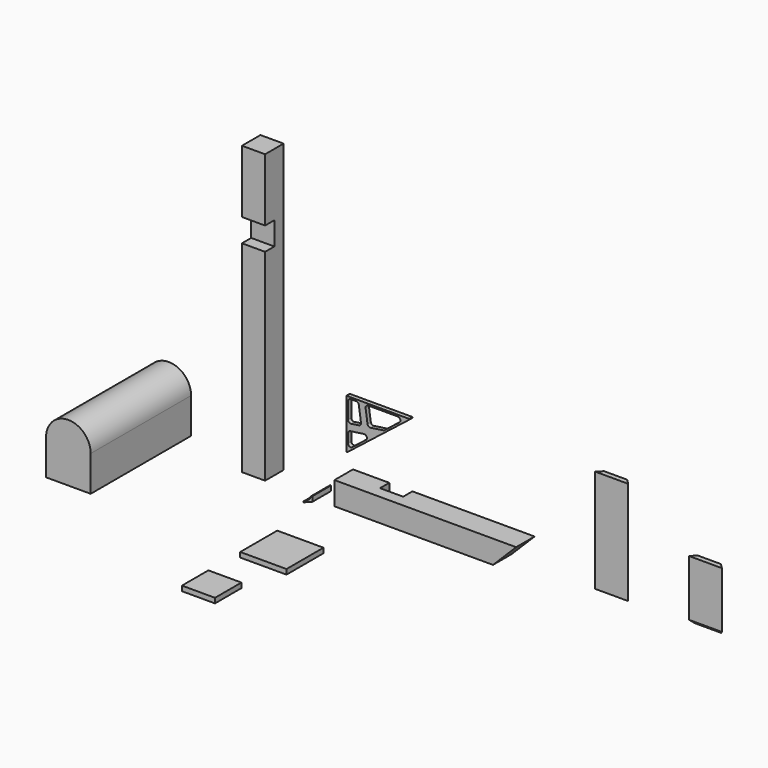
from build123d import *

# Parameters (mm, degrees)
F1_DEPTH  = 482.6
F3_DEPTH  = 88.9
F4_W      = 88.9
F4_H      = 88.9
F5_DEPTH  = 44.45
F7_DEPTH  = 88.9
F8_W      = 88.9
F8_H      = 88.9
F9_DEPTH  = 44.45
F11_DEPTH = 88.9
F12_W     = 88.9
F12_H     = 95.25
F13_DEPTH = 88.9
F15_DEPTH = 88.9
F17_W     = 127
F17_H     = 396.875
F18_DEPTH = 19.05
F20_DEPTH = 396.876
F21_W     = 127
F21_H     = 228.6
F22_DEPTH = 19.05
F24_DEPTH = 228.601
F26_DEPTH = 127
F28_DEPTH = 1104.901
F29_W     = 177.8
F29_H     = 177.8
F30_DEPTH = 19.05
F31_W     = 127
F31_H     = 127
F32_DEPTH = 19.05
F33_W     = 241.3
F33_H     = 190.5
F34_DEPTH = 15.875
F36_DEPTH = 15.876
F38_DEPTH = 15.876
F39_R     = 10.16
F40_SIZE  = 12.7


with BuildPart() as f1:
    # F0 (on Front) → F1 (new body)
    with BuildSketch(Plane.XZ):
        with BuildLine():
            Line((-781.05, 136.525), (-781.05, 0))
            Line((-781.05, 0), (-609.6, 0))
            Line((-609.6, 0), (-609.6, 136.525))
            ThreePointArc((-609.6, 136.525), (-695.325, 222.25), (-781.05, 136.525))
        make_face()
    extrude(amount=F1_DEPTH)


with BuildPart() as f3:
    # F2 (on Front) → F3 (new body)
    with BuildSketch(Plane.XZ):
        Polygon((-342.9, 1104.9), (-342.9, 0), (-254, 0), (-254, 1193.8), align=None)
    extrude(amount=F3_DEPTH)

    # F4 (on face) → F5 (cut)
    with BuildSketch(Plane.XZ.offset(88.9)):
        with Locations((-298.45, 819.15)):
            Rectangle(F4_W, F4_H)
    extrude(amount=-F5_DEPTH, mode=Mode.SUBTRACT)

    # F12 (on face) → F13 (cut)
    with BuildSketch(Plane.XZ.offset(88.9)):
        with Locations((-298.45, 1152.525)):
            Rectangle(F12_W, F12_H)
    extrude(amount=-F13_DEPTH, mode=Mode.SUBTRACT)


with BuildPart() as f7:
    # F6 (on Front) → F7 (new body)
    with BuildSketch(Plane.XZ):
        Polygon((12.7, 88.9), (-76.2, 0), (622.3, 0), (711.2, 88.9), align=None)
    extrude(amount=F7_DEPTH)

    # F8 (on face) → F9 (cut)
    with BuildSketch(Plane(origin=(0, 0, 0), x_dir=(-1, 0, 0), z_dir=(0, 1, 0))):
        with Locations((-196.85, 44.45)):
            Rectangle(F8_W, F8_H)
    extrude(amount=-F9_DEPTH, mode=Mode.SUBTRACT)

    # F14 (on face) → F15 (cut)
    with BuildSketch(Plane.XZ.offset(88.9)):
        Polygon((-76.2, 0), (12.7, 88.9), (-82.55, 88.9), (-82.55, 0), align=None)
        Polygon((12.7, 0), (12.7, 88.9), (-76.2, 0), align=None)
    extrude(amount=-F15_DEPTH, mode=Mode.SUBTRACT)


with BuildPart() as f11:
    # F10 (on Front) → F11 (new body)
    with BuildSketch(Plane.XZ):
        Polygon((977.993183, 88.9), (889.093183, 0), (1231.993183, 0), (1143.093183, 88.9), align=None)
    extrude(amount=F11_DEPTH)


with BuildPart() as f18:
    # F17 (on Front) → F18 (new body)
    with BuildSketch(Plane.XZ):
        with Locations((1022.666318, 198.4375)):
            Rectangle(F17_W, F17_H)
    extrude(amount=F18_DEPTH)

    # F19 (on face) → F20 (cut, through all)
    with BuildSketch(Plane.XY.offset(396.875)):
        Polygon((959.166318, 0), (959.166318, -19.05), (978.216318, 0), align=None)
        Polygon((1067.116318, 0), (1086.166318, -19.05), (1086.166318, 0), align=None)
    extrude(amount=-F20_DEPTH, mode=Mode.SUBTRACT)


with BuildPart() as f22:
    # F21 (on Front) → F22 (new body)
    with BuildSketch(Plane.XZ):
        with Locations((1383.041433, 114.3)):
            Rectangle(F21_W, F21_H)
    extrude(amount=F22_DEPTH)

    # F23 (on face) → F24 (cut, through all)
    with BuildSketch(Plane.XY.offset(228.6)):
        Polygon((1427.491433, 0), (1446.541433, -19.05), (1446.541433, 0), align=None)
        Polygon((1319.541433, 0), (1319.541433, -19.05), (1338.591433, 0), align=None)
    extrude(amount=-F24_DEPTH, mode=Mode.SUBTRACT)

    # F40
    f40_edges = [f22.edges().sort_by_distance(p)[0] for p in [
        (1383.041433, -19.05, 0),
    ]]
    chamfer(f40_edges, length=F40_SIZE)


with BuildPart() as f26:
    # F25 (on Front) → F26 (new body)
    with BuildSketch(Plane.XZ):
        with BuildLine():
            Line((-76.283529, 0), (-57.233529, 0))
            Line((-57.233529, 0), (-57.233529, 19.05))
            Line((-57.233529, 19.05), (-60.408529, 19.05))
            ThreePointArc((-60.408529, 19.05), (-65.058209, 7.82468), (-76.283529, 3.175))
            Line((-76.283529, 3.175), (-76.283529, 0))
        make_face()
    extrude(amount=F26_DEPTH)

    # F27 (on face) → F28 (cut, through all)
    with BuildSketch(Plane(origin=(0, 0, 0), x_dir=(1, 0, 0), z_dir=(0, 0, -1))):
        Polygon((-57.233529, 19.05), (-76.283529, 0), (-57.233529, 0), align=None)
        Polygon((-57.233529, 127), (-76.283529, 127), (-57.233529, 107.95), align=None)
    extrude(amount=-F28_DEPTH, mode=Mode.SUBTRACT)


with BuildPart() as f30:
    # F29 (on Top) → F30 (new body)
    with BuildSketch(Plane.XY):
        with Locations((88.9, -436.926965)):
            Rectangle(F29_W, F29_H)
    extrude(amount=F30_DEPTH)


with BuildPart() as f32:
    # F31 (on Top) → F32 (new body)
    with BuildSketch(Plane.XY):
        with Locations((63.5, -742.43113)):
            Rectangle(F31_W, F31_H)
    extrude(amount=F32_DEPTH)


with BuildPart() as f34:
    # F33 (on Front) → F34 (new body)
    with BuildSketch(Plane.XZ):
        with Locations((120.65, 245.506336)):
            Rectangle(F33_W, F33_H)
    extrude(amount=F34_DEPTH)

    # F35 (on face) → F36 (cut, through all)
    with BuildSketch(Plane.XZ.offset(15.875)):
        Polygon((241.3, 337.581336), (3.175, 150.256336), (241.3, 150.256336), align=None)
    extrude(amount=-F36_DEPTH, mode=Mode.SUBTRACT)

    # F37 (on face) → F38 (cut, through all)
    with BuildSketch(Plane.XZ.offset(15.875)):
        Polygon((6.35, 224.33335), (6.35, 160.83335), (105.147979, 238.554427), align=None)
        Polygon((46.649801, 334.406336), (6.35, 334.406336), (6.35, 249.995132), (57.735378, 257.391593), align=None)
        Polygon((72.311583, 334.406336), (82.876266, 261.010397), (145.074471, 269.963267), (226.993626, 334.406336), align=None)
    extrude(amount=-F38_DEPTH, mode=Mode.SUBTRACT)

    # F39
    f39_edges = [f34.edges().sort_by_distance(p)[0] for p in [
        (145.074471, -7.9375, 269.963267),
        (82.876266, -7.9375, 261.010397),
        (72.311583, -7.9375, 334.406336),
        (226.993626, -7.9375, 334.406336),
        (46.649801, -7.9375, 334.406336),
        (6.35, -7.9375, 334.406336),
        (6.35, -7.9375, 249.995132),
        (57.735378, -7.9375, 257.391593),
        (105.147979, -7.9375, 238.554427),
        (6.35, -7.9375, 224.33335),
        (6.35, -7.9375, 160.83335),
    ]]
    fillet(f39_edges, radius=F39_R)


solid = Compound([f1.part, f3.part, f7.part, f18.part, f22.part, f26.part, f30.part, f32.part, f34.part])
